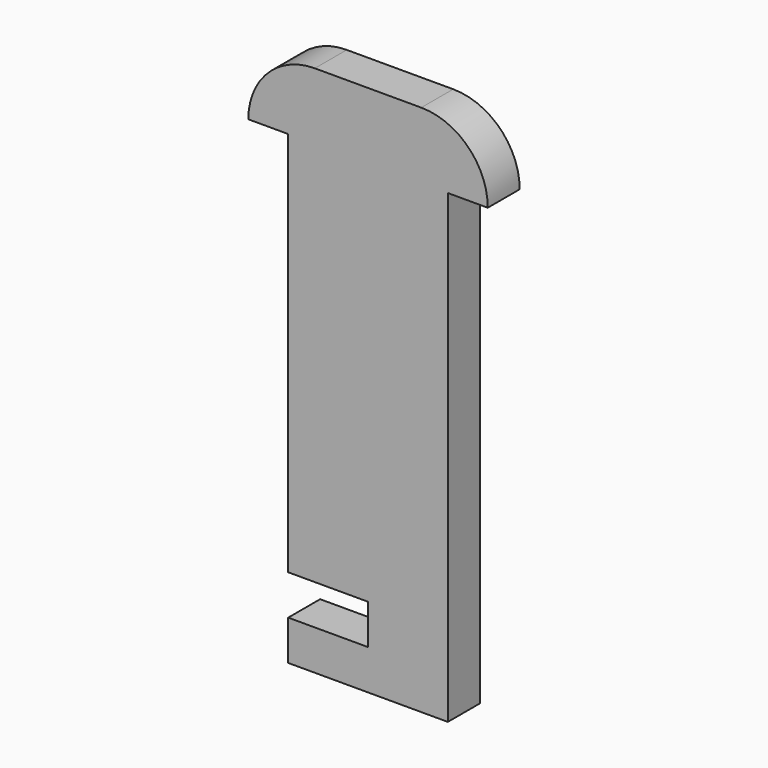
from build123d import *

# Parameters (mm, degrees)
F1_DEPTH = 3


with BuildPart() as f1:
    # F0 (on Front) → F1 (new body)
    with BuildSketch(Plane.XZ):
        with BuildLine():
            Line((-6, -17.5), (6, -17.5))
            Line((6, -17.5), (6, 17.5))
            Line((6, 17.5), (9, 17.5))
            ThreePointArc((9, 17.5), (7.535534, 21.035534), (4, 22.5))
            Line((4, 22.5), (-4, 22.5))
            ThreePointArc((-4, 22.5), (-7.535534, 21.035534), (-9, 17.5))
            Line((-9, 17.5), (-6, 17.5))
            Line((-6, 17.5), (-6, -11.5))
            Line((-6, -11.5), (0, -11.5))
            Line((0, -11.5), (0, -14.5))
            Line((0, -14.5), (-6, -14.5))
            Line((-6, -14.5), (-6, -17.5))
        make_face()
    extrude(amount=F1_DEPTH)


solid = f1.part
